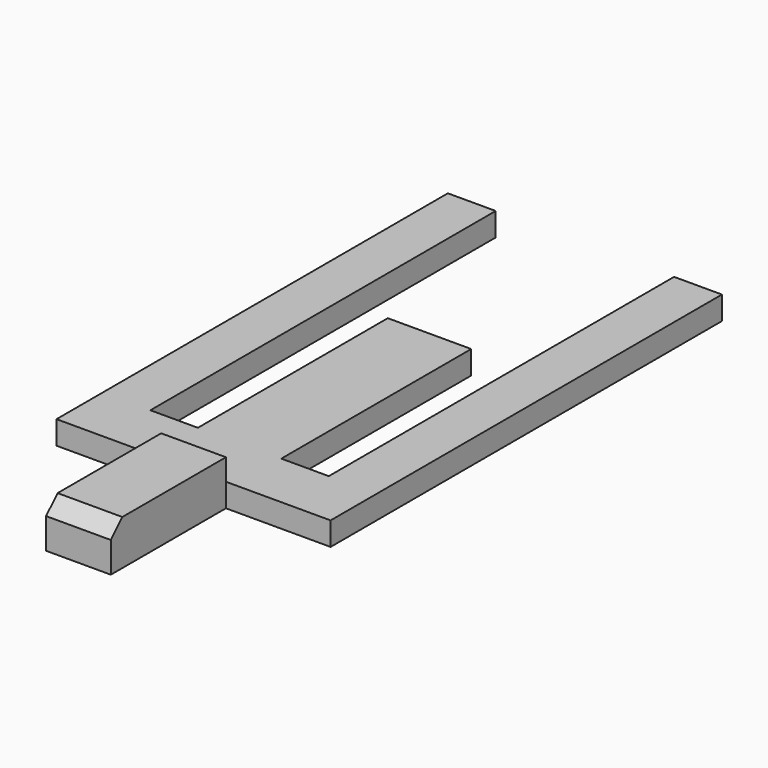
from build123d import *

# Parameters (mm, degrees)
PAD_DEPTH    = 3.25
SKETCH001_W  = 9
SKETCH001_H  = 20
PAD001_DEPTH = 3
CHAMFER_SIZE = 2


with BuildPart() as part:
    # Sketch → Pad (new body)
    with BuildSketch(Plane.XY):
        Polygon((38.1, 0), (38.1, 8), (38.1, 68), (31.45, 68), (31.45, 8), (24.85, 8), (24.85, 41), (13.25, 41), (13.25, 8), (6.65, 8), (6.65, 68), (0, 68), (0, 8), (0, 0), (14.55, 0), (14.55, -20), (23.55, -20), (23.55, 0), align=None)
    extrude(amount=PAD_DEPTH)

    # Sketch001 (on Face20 of Pad) → Pad001 (join)
    with BuildSketch(Plane.XY.offset(3.25)):
        with Locations((19.05, -10)):
            Rectangle(SKETCH001_W, SKETCH001_H)
    extrude(amount=PAD001_DEPTH)

    # Chamfer
    chamfer_edges = [part.edges().sort_by_distance(p)[0] for p in [
        (19.05, -20, 6.25),
    ]]
    chamfer(chamfer_edges, length=CHAMFER_SIZE)


solid = part.part
